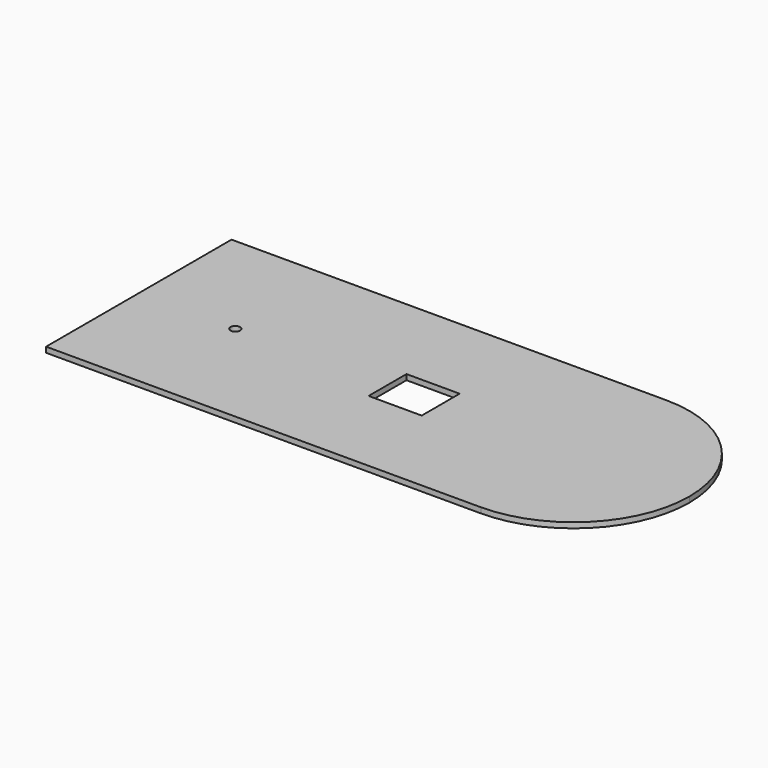
from build123d import *

# Parameters (mm, degrees)
F0_W     = 279.4
F0_H     = 249.174
F1_DEPTH = 28.575


with BuildPart() as f1:
    # F0 (on Top) → F1 (new body)
    with BuildSketch(Plane.XY):
        with BuildLine():
            ThreePointArc((1447.8, -2e-06), (1269.252294, 431.052293), (838.2, 609.6))
            Line((838.2, 609.6), (-1371.6, 609.6))
            Line((-1371.6, 609.6), (-1447.8, 609.6))
            Line((-1447.8, 609.6), (-1447.8, 533.4))
            Line((-1447.8, 533.4), (-1447.8, 0))
            Line((-1447.8, 0), (-1447.8, -533.4))
            Line((-1447.8, -533.4), (-1447.8, -609.6))
            Line((-1447.8, -609.6), (-1371.6, -609.6))
            Line((-1371.6, -609.6), (838.2, -609.6))
            ThreePointArc((838.2, -609.6), (1269.252293, -431.052294), (1447.8, -2e-06))
        make_face()
        with BuildLine():
            ThreePointArc((-914.4, 0), (-939.8, -25.4), (-965.2, 0))
            ThreePointArc((-965.2, 0), (-939.8, 25.4), (-914.4, 0))
        make_face(mode=Mode.SUBTRACT)
        Rectangle(F0_W, F0_H, mode=Mode.SUBTRACT)
    extrude(amount=F1_DEPTH)


solid = f1.part
